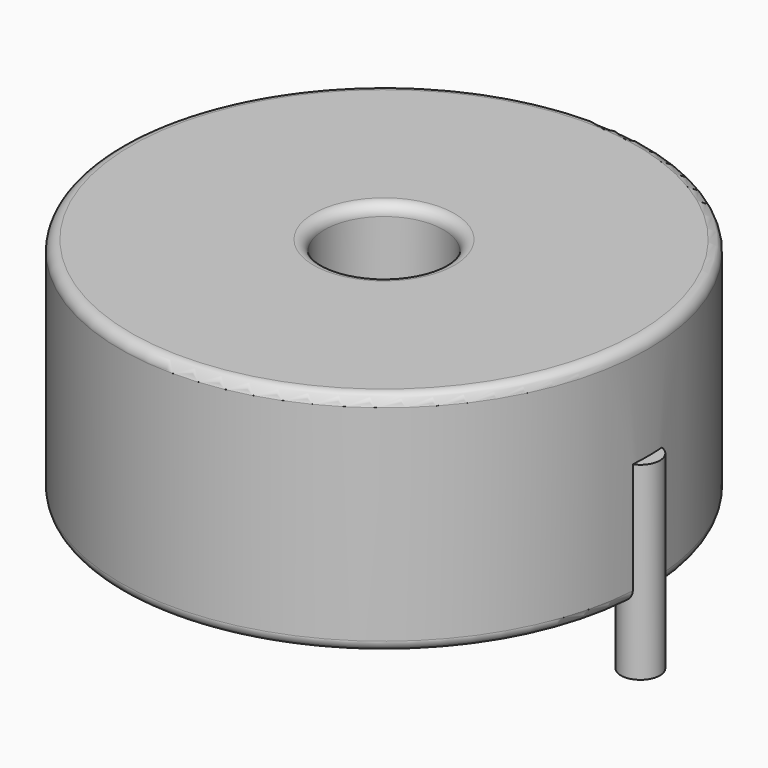
from build123d import *

# Parameters (mm, degrees)
SKETCH001_R       = 0.9
PAD001_DEPTH      = 5.25
PAD001_DEPTH_BACK = 3.5
SKETCH_R          = 12.2
SKETCH_R_2        = 2.75
PAD_DEPTH         = 10.5
FILLET_R          = 0.5


with BuildPart() as pad001:
    # Sketch001 → Pad001 (new body, two sides)
    with BuildSketch(Plane.XY.offset(0.5)) as pad001_sk:
        Circle(SKETCH001_R)
        with Locations((23.7, 0)):
            Circle(SKETCH001_R)
    extrude(amount=PAD001_DEPTH)
    extrude(pad001_sk.sketch, amount=-PAD001_DEPTH_BACK)


with BuildPart() as obj1:
    # Sketch → Pad (new body)
    with BuildSketch(Plane.XY.offset(0.1)):
        with Locations((11.85, 0)):
            Circle(SKETCH_R)
        with Locations((11.85, 0)):
            Circle(SKETCH_R_2, mode=Mode.SUBTRACT)
    extrude(amount=PAD_DEPTH)

    # Fillet
    fillet_edges = [obj1.edges().sort_by_distance(p)[0] for p in [
        (9.1, 0, 10.6),
        (-0.35, 0, 10.6),
        (-0.35, 0, 0.1),
    ]]
    fillet(fillet_edges, radius=FILLET_R)

    # obj1: union Pad001
    add(pad001.part)


solid = obj1.part
